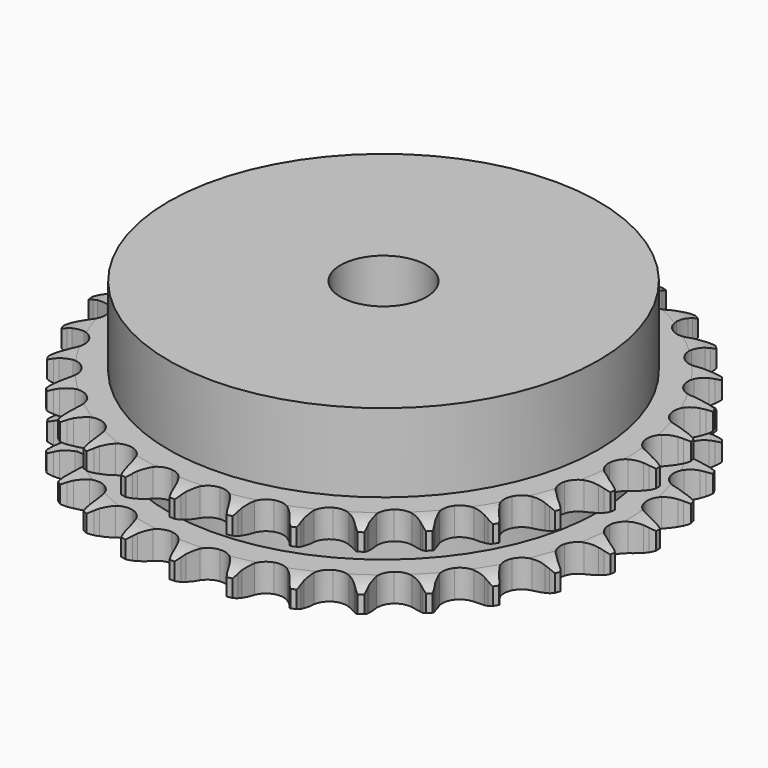
from build123d import *

# Parameters (mm, degrees)
PAD_DEPTH         = 15.4
SKETCH001_R       = 40
PAD001_DEPTH      = 30
SKETCH002_R       = 8
POCKET_DEPTH      = 0.001
POCKET_DEPTH_BACK = 30.001


with BuildPart() as part:
    # Sprocket → Pad (new body)
    with BuildSketch(Plane.XY):
        with BuildLine():
            ThreePointArc((-5.051205, 49.672555), (-4.455284, 48.887178), (-4.019635, 48.002785))
            Line((-4.019635, 48.002785), (-3.709921, 47.184961))
            ThreePointArc((-3.709921, 47.184961), (-3.217996, 46.119865), (-2.580961, 45.134672))
            ThreePointArc((-2.580961, 45.134672), (-1.442388, 44.186103), (0, 43.846037))
            ThreePointArc((0, 43.846037), (1.442388, 44.186103), (2.580961, 45.134672))
            ThreePointArc((2.580961, 45.134672), (3.217996, 46.119865), (3.709921, 47.184961))
            Line((3.709921, 47.184961), (4.019635, 48.002785))
            ThreePointArc((4.019635, 48.002785), (4.455284, 48.887178), (5.051205, 49.672555))
            ThreePointArc((5.051205, 49.672555), (5.476833, 48.783296), (5.725536, 47.829312))
            Line((5.725536, 47.829312), (5.864284, 46.965883))
            ThreePointArc((5.864284, 46.965883), (6.131737, 45.823566), (6.557414, 44.730306))
            ThreePointArc((6.557414, 44.730306), (7.481735, 43.571962), (8.826142, 42.948506))
            ThreePointArc((8.826142, 42.948506), (10.30746, 42.99126), (11.613671, 43.691219))
            Line((11.613671, 43.691219), (13.132241, 45.47228))
            ThreePointArc((13.132241, 45.47228), (13.356516, 45.847811), (13.600243, 46.211018))
            ThreePointArc((13.600243, 46.211018), (14.205, 46.989612), (14.946818, 47.638955))
            ThreePointArc((14.946818, 47.638955), (15.184727, 46.682221), (15.236304, 45.697701))
            Line((15.236304, 45.697701), (15.198405, 44.824017))
            ThreePointArc((15.198405, 44.824017), (15.230436, 43.651246), (15.427328, 42.494676))
            ThreePointArc((15.427328, 42.494676), (16.099555, 41.173979), (17.290942, 40.292658))
            ThreePointArc((17.290942, 40.292658), (18.750543, 40.03635), (20.170916, 40.459042))
            Line((20.170916, 40.459042), (22.016926, 41.897959))
            ThreePointArc((22.016926, 41.897959), (22.312204, 42.220656), (22.624054, 42.527367))
            ThreePointArc((22.624054, 42.527367), (23.373162, 43.168286), (24.230507, 43.65501))
            ThreePointArc((24.230507, 43.65501), (24.270957, 42.66997), (24.123296, 41.695221))
            Line((24.123296, 41.695221), (23.910301, 40.847051))
            ThreePointArc((23.910301, 40.847051), (23.705599, 39.691838), (23.665645, 38.519309))
            ThreePointArc((23.665645, 38.519309), (24.058257, 37.090329), (25.047847, 35.987224))
            ThreePointArc((25.047847, 35.987224), (26.425976, 35.442348), (27.902361, 35.570468))
            Line((27.902361, 35.570468), (30.000236, 36.608331))
            ThreePointArc((30.000236, 36.608331), (30.354428, 36.864983), (30.721635, 37.102641))
            ThreePointArc((30.721635, 37.102641), (31.584425, 37.579646), (32.522196, 37.883824))
            ThreePointArc((32.522196, 37.883824), (32.363531, 36.910806), (32.022676, 35.985733))
            Line((32.022676, 35.985733), (31.643306, 35.197801))
            ThreePointArc((31.643306, 35.197801), (31.210253, 34.107441), (30.935088, 32.966957))
            ThreePointArc((30.935088, 32.966957), (31.032011, 31.488196), (31.779292, 30.208469))
            ThreePointArc((31.779292, 30.208469), (33.019527, 29.397331), (34.491481, 29.225634))
            Line((34.491481, 29.225634), (36.755332, 29.819953))
            ThreePointArc((36.755332, 29.819953), (37.153937, 30.000053), (37.561468, 30.158928))
            ThreePointArc((37.561468, 30.158928), (38.502617, 30.452491), (39.482423, 30.56167))
            ThreePointArc((39.482423, 30.56167), (39.131138, 29.640508), (38.611045, 28.802986))
            Line((38.611045, 28.802986), (38.080831, 28.107549))
            ThreePointArc((38.080831, 28.107549), (37.437154, 27.126682), (36.938045, 26.064934))
            ThreePointArc((36.938045, 26.064934), (36.735311, 24.596933), (37.209688, 23.192976))
            ThreePointArc((37.209688, 23.192976), (38.261254, 22.148784), (39.668515, 21.6843))
            Line((39.668515, 21.6843), (42.005661, 21.810743))
            ThreePointArc((42.005661, 21.810743), (42.43236, 21.906918), (42.86353, 21.980505))
            ThreePointArc((42.86353, 21.980505), (43.844507, 22.078607), (44.826234, 21.988318))
            ThreePointArc((44.826234, 21.988318), (44.296712, 21.156725), (43.618673, 20.441041))
            Line((43.618673, 20.441041), (42.959322, 19.866571))
            ThreePointArc((42.959322, 19.866571), (42.131375, 19.035354), (41.428753, 18.09581))
            ThreePointArc((41.428753, 18.09581), (40.934663, 16.698668), (41.116715, 15.227959))
            ThreePointArc((41.116715, 15.227959), (41.936562, 13.993463), (43.221516, 13.255207))
            Line((43.221516, 13.255207), (45.536272, 12.908598))
            ThreePointArc((45.536272, 12.908598), (45.973598, 12.916911), (46.410754, 12.902198))
            ThreePointArc((46.410754, 12.902198), (47.391398, 12.800822), (48.334854, 12.514761))
            ThreePointArc((48.334854, 12.514761), (47.648773, 11.806783), (46.840548, 11.242237))
            Line((46.840548, 11.242237), (46.079054, 10.812253))
            ThreePointArc((46.079054, 10.812253), (45.100731, 10.164716), (44.223364, 9.385841))
            ThreePointArc((44.223364, 9.385841), (43.458146, 8.116759), (43.340419, 6.639508))
            ThreePointArc((43.340419, 6.639508), (43.894981, 5.265248), (45.005022, 4.283445))
            Line((45.005022, 4.283445), (47.202624, 3.477974))
            ThreePointArc((47.202624, 3.477974), (47.63267, 3.398084), (48.057917, 3.295673))
            ThreePointArc((48.057917, 3.295673), (48.99808, 2.99897), (49.86464, 2.528848))
            ThreePointArc((49.86464, 2.528848), (49.050088, 1.97347), (48.144765, 1.583175))
            Line((48.144765, 1.583175), (47.312303, 1.31528))
            ThreePointArc((47.312303, 1.31528), (46.223659, 0.877933), (45.207465, 0.291614))
            ThreePointArc((45.207465, 0.291614), (44.202446, -0.797452), (43.789761, -2.220765))
            ThreePointArc((43.789761, -2.220765), (44.056335, -3.678526), (44.946018, -4.863682))
            Line((44.946018, -4.863682), (46.936495, -6.095038))
            ThreePointArc((46.936495, -6.095038), (47.341656, -6.259861), (47.737582, -6.445777))
            ThreePointArc((47.737582, -6.445777), (48.598775, -6.92566), (49.352961, -7.560596))
            ThreePointArc((49.352961, -7.560596), (48.443286, -7.940637), (47.477929, -8.140703))
            Line((47.477929, -8.140703), (46.608582, -8.23554))
            ThreePointArc((46.608582, -8.23554), (45.454185, -8.444793), (44.340767, -8.814551))
            ThreePointArc((44.340767, -8.814551), (43.137094, -9.679016), (42.446345, -10.99012))
            ThreePointArc((42.446345, -10.99012), (42.414017, -12.471702), (43.046919, -13.811689))
            Line((43.046919, -13.811689), (44.74878, -15.41852))
            ThreePointArc((44.74878, -15.41852), (45.112469, -15.661527), (45.462866, -15.923336))
            ThreePointArc((45.462866, -15.923336), (46.20983, -16.566753), (46.820767, -17.340508))
            ThreePointArc((46.820767, -17.340508), (45.853211, -17.529653), (44.867342, -17.531299))
            Line((44.867342, -17.531299), (43.996699, -17.449197))
            ThreePointArc((43.996699, -17.449197), (42.823811, -17.421787), (41.658753, -17.559847))
            ThreePointArc((41.658753, -17.559847), (40.305703, -18.164319), (39.365171, -19.309538))
            ThreePointArc((39.365171, -19.309538), (39.035265, -20.754284), (39.385473, -22.194244))
            Line((39.385473, -22.194244), (40.729044, -24.110765))
            ThreePointArc((40.729044, -24.110765), (41.036372, -24.422008), (41.326894, -24.748992))
            ThreePointArc((41.326894, -24.748992), (41.929049, -25.529601), (42.371724, -26.410498))
            ThreePointArc((42.371724, -26.410498), (41.3859, -26.401004), (40.41988, -26.204162))
            Line((40.41988, -26.204162), (39.583587, -25.948481))
            ThreePointArc((39.583587, -25.948481), (38.440225, -25.685532), (37.271225, -25.586241))
            ThreePointArc((37.271225, -25.586241), (35.824193, -25.905972), (34.672382, -26.838422))
            ThreePointArc((34.672382, -26.838422), (34.058404, -28.187184), (34.111582, -29.668164))
            Line((34.111582, -29.668164), (35.041857, -31.815912))
            ThreePointArc((35.041857, -31.815912), (35.280241, -32.182649), (35.498995, -32.561422))
            ThreePointArc((35.498995, -32.561422), (35.931688, -33.447264), (36.187978, -34.399239))
            ThreePointArc((36.187978, -34.399239), (35.224245, -34.191494), (34.317624, -33.804223))
            Line((34.317624, -33.804223), (33.549918, -33.385432))
            ThreePointArc((33.549918, -33.385432), (32.482891, -32.897708), (31.357808, -32.565132))
            ThreePointArc((31.357808, -32.565132), (29.876036, -32.587033), (28.560102, -33.268537))
            ThreePointArc((28.560102, -33.268537), (27.687188, -34.466097), (27.441158, -35.927465))
            Line((27.441158, -35.927465), (27.920052, -38.218513))
            ThreePointArc((27.920052, -38.218513), (28.079733, -38.625728), (28.217762, -39.040783))
            ThreePointArc((28.217762, -39.040783), (28.463279, -39.995592), (28.522693, -40.979671))
            ThreePointArc((28.522693, -40.979671), (27.620505, -40.58218), (26.8104, -40.020336))
            Line((26.8104, -40.020336), (26.142711, -39.455579))
            ThreePointArc((26.142711, -39.455579), (25.195705, -38.763048), (24.160599, -38.210802))
            ThreePointArc((24.160599, -38.210802), (22.70475, -37.933976), (21.278568, -38.336634))
            ThreePointArc((21.278568, -38.336634), (20.182455, -39.333964), (19.647291, -40.715893))
            Line((19.647291, -40.715893), (19.655197, -43.056443))
            ThreePointArc((19.655197, -43.056443), (19.729637, -43.487466), (19.781291, -43.921809))
            ThreePointArc((19.781291, -43.921809), (19.829581, -44.906496), (19.689684, -45.88239))
            ThreePointArc((19.689684, -45.88239), (18.885979, -45.311428), (18.205555, -44.598011))
            Line((18.205555, -44.598011), (17.665218, -43.91041))
            ThreePointArc((17.665218, -43.91041), (16.877003, -43.041424), (15.974252, -42.292118))
            ThreePointArc((15.974252, -42.292118), (14.603929, -41.727898), (13.125887, -41.835225))
            ThreePointArc((13.125887, -41.835225), (11.851451, -42.591494), (11.04906, -43.837406))
            Line((11.04906, -43.837406), (10.585656, -46.131637))
            ThreePointArc((10.585656, -46.131637), (10.571807, -46.568822), (10.534972, -47.004672))
            ThreePointArc((10.534972, -47.004672), (10.384057, -47.978923), (10.050578, -48.906679))
            ThreePointArc((10.050578, -48.906679), (9.378259, -48.18562), (8.855373, -47.349838))
            Line((8.855373, -47.349838), (8.46451, -46.567543))
            ThreePointArc((8.46451, -46.567543), (7.867355, -45.557679), (7.133918, -44.641989))
            ThreePointArc((7.133918, -44.641989), (5.905222, -43.813475), (4.43583, -43.621077))
            ThreePointArc((4.43583, -43.621077), (3.035246, -44.105323), (1.99848, -45.164212))
            Line((1.99848, -45.164212), (1.082737, -47.318196))
            ThreePointArc((1.082737, -47.318196), (0.981167, -47.743644), (0.857349, -48.163158))
            ThreePointArc((0.857349, -48.163158), (0.513409, -49.087087), (0, -49.928723))
            ThreePointArc((0, -49.928723), (-0.513409, -49.087087), (-0.857349, -48.163158))
            Line((-0.857349, -48.163158), (-1.082737, -47.318196))
            ThreePointArc((-1.082737, -47.318196), (-1.464384, -46.208798), (-1.99848, -45.164212))
            ThreePointArc((-1.99848, -45.164212), (-3.035246, -44.105323), (-4.43583, -43.621077))
            ThreePointArc((-4.43583, -43.621077), (-5.905222, -43.813475), (-7.133918, -44.641989))
            Line((-7.133918, -44.641989), (-8.46451, -46.567543))
            ThreePointArc((-8.46451, -46.567543), (-8.649642, -46.963837), (-8.855373, -47.349838))
            ThreePointArc((-8.855373, -47.349838), (-9.378259, -48.18562), (-10.050578, -48.906679))
            ThreePointArc((-10.050578, -48.906679), (-10.384057, -47.978923), (-10.534972, -47.004672))
            Line((-10.534972, -47.004672), (-10.585656, -46.131637))
            ThreePointArc((-10.585656, -46.131637), (-10.73617, -44.968123), (-11.04906, -43.837406))
            ThreePointArc((-11.04906, -43.837406), (-11.851451, -42.591494), (-13.125887, -41.835225))
            ThreePointArc((-13.125887, -41.835225), (-14.603929, -41.727898), (-15.974252, -42.292118))
            Line((-15.974252, -42.292118), (-17.665218, -43.91041))
            ThreePointArc((-17.665218, -43.91041), (-17.926335, -44.261324), (-18.205555, -44.598011))
            ThreePointArc((-18.205555, -44.598011), (-18.885979, -45.311428), (-19.689684, -45.88239))
            ThreePointArc((-19.689684, -45.88239), (-19.829581, -44.906496), (-19.781291, -43.921809))
            Line((-19.781291, -43.921809), (-19.655197, -43.056443))
            ThreePointArc((-19.655197, -43.056443), (-19.568417, -41.886447), (-19.647291, -40.715893))
            ThreePointArc((-19.647291, -40.715893), (-20.182455, -39.333964), (-21.278568, -38.336634))
            ThreePointArc((-21.278568, -38.336634), (-22.70475, -37.933976), (-24.160599, -38.210802))
            Line((-24.160599, -38.210802), (-26.142711, -39.455579))
            ThreePointArc((-26.142711, -39.455579), (-26.46912, -39.746747), (-26.8104, -40.020336))
            ThreePointArc((-26.8104, -40.020336), (-27.620505, -40.58218), (-28.522693, -40.979671))
            ThreePointArc((-28.522693, -40.979671), (-28.463279, -39.995592), (-28.217762, -39.040783))
            Line((-28.217762, -39.040783), (-27.920052, -38.218513))
            ThreePointArc((-27.920052, -38.218513), (-27.59953, -37.089936), (-27.441158, -35.927465))
            ThreePointArc((-27.441158, -35.927465), (-27.687188, -34.466097), (-28.560102, -33.268537))
            ThreePointArc((-28.560102, -33.268537), (-29.876036, -32.587033), (-31.357808, -32.565132))
            Line((-31.357808, -32.565132), (-33.549918, -33.385432))
            ThreePointArc((-33.549918, -33.385432), (-33.928257, -33.604934), (-34.317624, -33.804223))
            ThreePointArc((-34.317624, -33.804223), (-35.224245, -34.191494), (-36.187978, -34.399239))
            ThreePointArc((-36.187978, -34.399239), (-35.931688, -33.447264), (-35.498995, -32.561422))
            Line((-35.498995, -32.561422), (-35.041857, -31.815912))
            ThreePointArc((-35.041857, -31.815912), (-34.500715, -30.774958), (-34.111582, -29.668164))
            ThreePointArc((-34.111582, -29.668164), (-34.058404, -28.187184), (-34.672382, -26.838422))
            ThreePointArc((-34.672382, -26.838422), (-35.824193, -25.905972), (-37.271225, -25.586241))
            Line((-37.271225, -25.586241), (-39.583587, -25.948481))
            ThreePointArc((-39.583587, -25.948481), (-39.998368, -26.087331), (-40.41988, -26.204162))
            ThreePointArc((-40.41988, -26.204162), (-41.3859, -26.401004), (-42.371724, -26.410498))
            ThreePointArc((-42.371724, -26.410498), (-41.929049, -25.529601), (-41.326894, -24.748992))
            Line((-41.326894, -24.748992), (-40.729044, -24.110765))
            ThreePointArc((-40.729044, -24.110765), (-39.989437, -23.20005), (-39.385473, -22.194244))
            ThreePointArc((-39.385473, -22.194244), (-39.035265, -20.754284), (-39.365171, -19.309538))
            ThreePointArc((-39.365171, -19.309538), (-40.305703, -18.164319), (-41.658753, -17.559847))
            Line((-41.658753, -17.559847), (-43.996699, -17.449197))
            ThreePointArc((-43.996699, -17.449197), (-44.43094, -17.50171), (-44.867342, -17.531299))
            ThreePointArc((-44.867342, -17.531299), (-45.853211, -17.529653), (-46.820767, -17.340508))
            ThreePointArc((-46.820767, -17.340508), (-46.20983, -16.566753), (-45.462866, -15.923336))
            Line((-45.462866, -15.923336), (-44.74878, -15.41852))
            ThreePointArc((-44.74878, -15.41852), (-43.840987, -14.675329), (-43.046919, -13.811689))
            ThreePointArc((-43.046919, -13.811689), (-42.414017, -12.471702), (-42.446345, -10.99012))
            ThreePointArc((-42.446345, -10.99012), (-43.137094, -9.679016), (-44.340767, -8.814551))
            Line((-44.340767, -8.814551), (-46.608582, -8.23554))
            ThreePointArc((-46.608582, -8.23554), (-47.044504, -8.199567), (-47.477929, -8.140703))
            ThreePointArc((-47.477929, -8.140703), (-48.443286, -7.940637), (-49.352961, -7.560596))
            ThreePointArc((-49.352961, -7.560596), (-48.598775, -6.92566), (-47.737582, -6.445777))
            Line((-47.737582, -6.445777), (-46.936495, -6.095038))
            ThreePointArc((-46.936495, -6.095038), (-45.897681, -5.549798), (-44.946018, -4.863682))
            ThreePointArc((-44.946018, -4.863682), (-44.056335, -3.678526), (-43.789761, -2.220765))
            ThreePointArc((-43.789761, -2.220765), (-44.202446, -0.797452), (-45.207465, 0.291614))
            Line((-45.207465, 0.291614), (-47.312303, 1.31528))
            ThreePointArc((-47.312303, 1.31528), (-47.732061, 1.438268), (-48.144765, 1.583175))
            ThreePointArc((-48.144765, 1.583175), (-49.050088, 1.97347), (-49.86464, 2.528848))
            ThreePointArc((-49.86464, 2.528848), (-48.99808, 2.99897), (-48.057917, 3.295673))
            Line((-48.057917, 3.295673), (-47.202624, 3.477974))
            ThreePointArc((-47.202624, 3.477974), (-46.075319, 3.802942), (-45.005022, 4.283445))
            ThreePointArc((-45.005022, 4.283445), (-43.894981, 5.265248), (-43.340419, 6.639508))
            ThreePointArc((-43.340419, 6.639508), (-43.458146, 8.116759), (-44.223364, 9.385841))
            Line((-44.223364, 9.385841), (-46.079054, 10.812253))
            ThreePointArc((-46.079054, 10.812253), (-46.465462, 11.01722), (-46.840548, 11.242237))
            ThreePointArc((-46.840548, 11.242237), (-47.648773, 11.806783), (-48.334854, 12.514761))
            ThreePointArc((-48.334854, 12.514761), (-47.391398, 12.800822), (-46.410754, 12.902198))
            Line((-46.410754, 12.902198), (-45.536272, 12.908598))
            ThreePointArc((-45.536272, 12.908598), (-44.366628, 12.999989), (-43.221516, 13.255207))
            ThreePointArc((-43.221516, 13.255207), (-41.936562, 13.993463), (-41.116715, 15.227959))
            ThreePointArc((-41.116715, 15.227959), (-40.934663, 16.698668), (-41.428753, 18.09581))
            Line((-41.428753, 18.09581), (-42.959322, 19.866571))
            ThreePointArc((-42.959322, 19.866571), (-43.296561, 20.145125), (-43.618673, 20.441041))
            ThreePointArc((-43.618673, 20.441041), (-44.296712, 21.156725), (-44.826234, 21.988318))
            ThreePointArc((-44.826234, 21.988318), (-43.844507, 22.078607), (-42.86353, 21.980505))
            Line((-42.86353, 21.980505), (-42.005661, 21.810743))
            ThreePointArc((-42.005661, 21.810743), (-40.841562, 21.664815), (-39.668515, 21.6843))
            ThreePointArc((-39.668515, 21.6843), (-38.261254, 22.148784), (-37.209688, 23.192976))
            ThreePointArc((-37.209688, 23.192976), (-36.735311, 24.596933), (-36.938045, 26.064934))
            Line((-36.938045, 26.064934), (-38.080831, 28.107549))
            ThreePointArc((-38.080831, 28.107549), (-38.355094, 28.448287), (-38.611045, 28.802986))
            ThreePointArc((-38.611045, 28.802986), (-39.131138, 29.640508), (-39.482423, 30.56167))
            ThreePointArc((-39.482423, 30.56167), (-38.502617, 30.452491), (-37.561468, 30.158928))
            Line((-37.561468, 30.158928), (-36.755332, 29.819953))
            ThreePointArc((-36.755332, 29.819953), (-35.644438, 29.442681), (-34.491481, 29.225634))
            ThreePointArc((-34.491481, 29.225634), (-33.019527, 29.397331), (-31.779292, 30.208469))
            ThreePointArc((-31.779292, 30.208469), (-31.032011, 31.488196), (-30.935088, 32.966957))
            Line((-30.935088, 32.966957), (-31.643306, 35.197801))
            ThreePointArc((-31.643306, 35.197801), (-31.843365, 35.586773), (-32.022676, 35.985733))
            ThreePointArc((-32.022676, 35.985733), (-32.363531, 36.910806), (-32.522196, 37.883824))
            ThreePointArc((-32.522196, 37.883824), (-31.584425, 37.579646), (-30.721635, 37.102641))
            Line((-30.721635, 37.102641), (-30.000236, 36.608331))
            ThreePointArc((-30.000236, 36.608331), (-28.988026, 36.01516), (-27.902361, 35.570468))
            ThreePointArc((-27.902361, 35.570468), (-26.425976, 35.442348), (-25.047847, 35.987224))
            ThreePointArc((-25.047847, 35.987224), (-24.058257, 37.090329), (-23.665645, 38.519309))
            Line((-23.665645, 38.519309), (-23.910301, 40.847051))
            ThreePointArc((-23.910301, 40.847051), (-24.027964, 41.268332), (-24.123296, 41.695221))
            ThreePointArc((-24.123296, 41.695221), (-24.270957, 42.66997), (-24.230507, 43.65501))
            ThreePointArc((-24.230507, 43.65501), (-23.373162, 43.168286), (-22.624054, 42.527367))
            Line((-22.624054, 42.527367), (-22.016926, 41.897959))
            ThreePointArc((-22.016926, 41.897959), (-21.144841, 41.113174), (-20.170916, 40.459042))
            ThreePointArc((-20.170916, 40.459042), (-18.750543, 40.03635), (-17.290942, 40.292658))
            ThreePointArc((-17.290942, 40.292658), (-16.099555, 41.173979), (-15.427328, 42.494676))
            Line((-15.427328, 42.494676), (-15.198405, 44.824017))
            ThreePointArc((-15.198405, 44.824017), (-15.228856, 45.26036), (-15.236304, 45.697701))
            ThreePointArc((-15.236304, 45.697701), (-15.184727, 46.682221), (-14.946818, 47.638955))
            ThreePointArc((-14.946818, 47.638955), (-14.205, 46.989612), (-13.600243, 46.211018))
            Line((-13.600243, 46.211018), (-13.132241, 45.47228))
            ThreePointArc((-13.132241, 45.47228), (-12.435984, 44.528011), (-11.613671, 43.691219))
            ThreePointArc((-11.613671, 43.691219), (-10.30746, 42.99126), (-8.826142, 42.948506))
            ThreePointArc((-8.826142, 42.948506), (-7.481735, 43.571962), (-6.557414, 44.730306))
            Line((-6.557414, 44.730306), (-5.864284, 46.965883))
            ThreePointArc((-5.864284, 46.965883), (-5.806277, 47.399424), (-5.725536, 47.829312))
            ThreePointArc((-5.725536, 47.829312), (-5.476833, 48.783296), (-5.051205, 49.672555))
        make_face()
    extrude(amount=PAD_DEPTH)

    # Sketch → Groove (revolve, cut)
    with BuildSketch(Plane.XZ):
        with BuildLine():
            ThreePointArc((44.791101, 0), (47.027169, 0.253206), (49.15, 1))
            Line((49.15, 1), (49.15, 4.2))
            ThreePointArc((49.15, 4.2), (47.027169, 4.946794), (44.791101, 5.2))
            Line((40, 5.2), (44.791101, 5.2))
            Line((40, 10.2), (40, 5.2))
            Line((44.791101, 10.2), (40, 10.2))
            ThreePointArc((44.791101, 10.2), (47.027169, 10.453206), (49.15, 11.2))
            Line((49.15, 11.2), (49.15, 14.4))
            ThreePointArc((49.15, 14.4), (47.027169, 15.146794), (44.791101, 15.4))
            Line((44.791101, 15.4), (54.791101, 15.4))
            Line((54.791101, 15.4), (54.791101, 0))
            Line((44.791101, 0), (54.791101, 0))
        make_face()
    revolve(axis=Axis((0, 0, 0), (0, 0, 1)), mode=Mode.SUBTRACT)

    # Sketch001 → Pad001 (join)
    with BuildSketch(Plane.XY):
        Circle(SKETCH001_R)
    extrude(amount=PAD001_DEPTH)

    # Sketch002 → Pocket (cut, two sides)
    with BuildSketch(Plane.XY) as pocket_sk:
        Circle(SKETCH002_R)
    extrude(amount=-POCKET_DEPTH, mode=Mode.SUBTRACT)
    extrude(pocket_sk.sketch, amount=POCKET_DEPTH_BACK, mode=Mode.SUBTRACT)


solid = part.part
